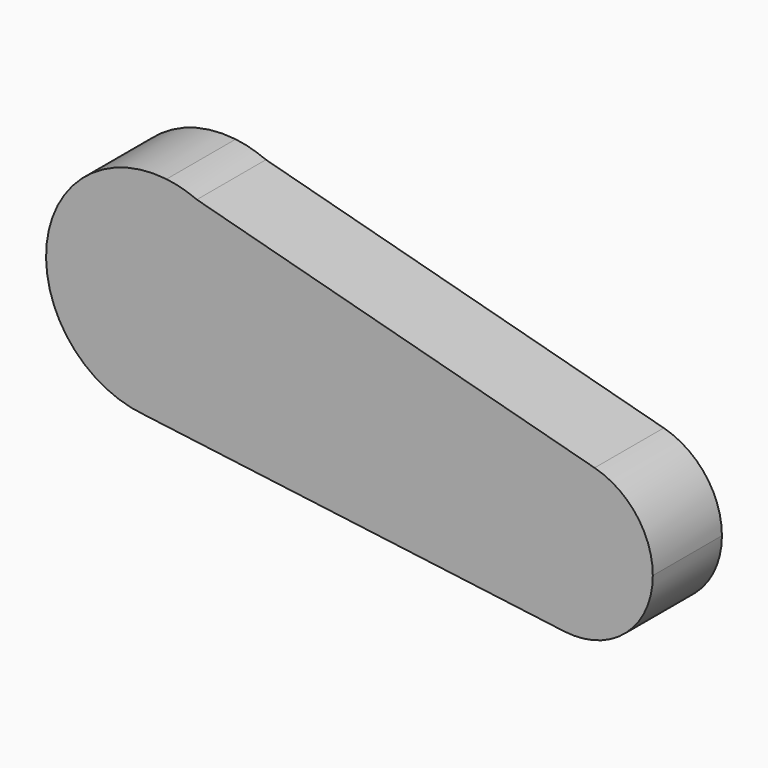
from build123d import *

# Parameters (mm, degrees)
F1_DEPTH = 25.4
F2_DEPTH = 25.4


with BuildPart() as f1:
    # F0 (on Front) → F1 (new body)
    with BuildSketch(Plane.XZ):
        with BuildLine():
            Line((-50.770752, 68.621059), (-59.689327, 71.015835))
            ThreePointArc((-59.689327, 71.015835), (-94.933334, 42.775326), (-66.24222, 7.897161))
            ThreePointArc((-66.24222, 7.897161), (-41.972825, 16.067976), (-31.63981, 39.498609))
            ThreePointArc((-31.63981, 39.498609), (-36.850348, 56.920649), (-50.770752, 68.621059))
        make_face()
        with BuildLine():
            ThreePointArc((-50.770752, 68.621059), (-55.142458, 70.144617), (-59.689327, 71.015835))
            Line((-59.689327, 71.015835), (-50.770752, 68.621059))
        make_face()
        with BuildLine():
            ThreePointArc((-31.63981, 39.498609), (-41.972825, 16.067976), (-66.24222, 7.897161))
            Line((-66.24222, 7.897161), (57.235367, -8.014038))
            ThreePointArc((57.235367, -8.014038), (37.521425, 19.385006), (66.180401, 37.217846))
            Line((66.180401, 37.217846), (-50.770752, 68.621059))
            ThreePointArc((-50.770752, 68.621059), (-36.850348, 56.920649), (-31.63981, 39.498609))
        make_face()
        with BuildLine():
            ThreePointArc((66.180401, 37.217846), (37.521425, 19.385006), (57.235367, -8.014038))
            ThreePointArc((57.235367, -8.014038), (75.446993, -2.448604), (83.294276, 14.902405))
            ThreePointArc((83.294276, 14.902405), (78.523231, 28.963554), (66.180401, 37.217846))
        make_face()
    extrude(amount=F1_DEPTH)

    # F0 (on Front) → F2 (join)
    with BuildSketch(Plane.XZ):
        with BuildLine():
            Line((-50.770752, 68.621059), (-59.689327, 71.015835))
            ThreePointArc((-59.689327, 71.015835), (-94.933334, 42.775326), (-66.24222, 7.897161))
            ThreePointArc((-66.24222, 7.897161), (-41.972825, 16.067976), (-31.63981, 39.498609))
            ThreePointArc((-31.63981, 39.498609), (-36.850348, 56.920649), (-50.770752, 68.621059))
        make_face()
        with BuildLine():
            ThreePointArc((-50.770752, 68.621059), (-55.142458, 70.144617), (-59.689327, 71.015835))
            Line((-59.689327, 71.015835), (-50.770752, 68.621059))
        make_face()
        with BuildLine():
            ThreePointArc((-31.63981, 39.498609), (-41.972825, 16.067976), (-66.24222, 7.897161))
            Line((-66.24222, 7.897161), (57.235367, -8.014038))
            ThreePointArc((57.235367, -8.014038), (37.521425, 19.385006), (66.180401, 37.217846))
            Line((66.180401, 37.217846), (-50.770752, 68.621059))
            ThreePointArc((-50.770752, 68.621059), (-36.850348, 56.920649), (-31.63981, 39.498609))
        make_face()
        with BuildLine():
            ThreePointArc((66.180401, 37.217846), (37.521425, 19.385006), (57.235367, -8.014038))
            ThreePointArc((57.235367, -8.014038), (75.446993, -2.448604), (83.294276, 14.902405))
            ThreePointArc((83.294276, 14.902405), (78.523231, 28.963554), (66.180401, 37.217846))
        make_face()
    extrude(amount=F2_DEPTH)


solid = f1.part
